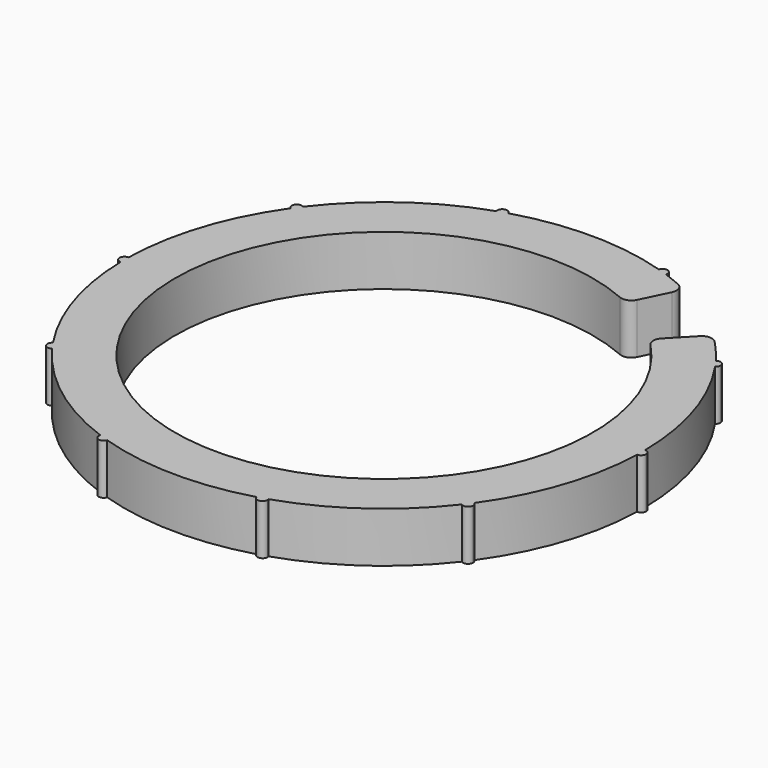
from build123d import *

# Parameters (mm, degrees)
F1_DEPTH = 5
F2_R     = 1


with BuildPart() as f1:
    # F0 (on Top) → F1 (new body)
    with BuildSketch(Plane.XY):
        with BuildLine():
            Line((9.0738694714, 18.6608518781), (11.2603440428, 23.1574426921))
            ThreePointArc((11.2603440428, 23.1574426921), (9.9323752456, 23.7573235441), (8.5725995071, 24.2811251323))
            ThreePointArc((8.5725995071, 24.2811251323), (7.9422550928, 23.9683767502), (7.6234016022, 24.5956550637))
            ThreePointArc((7.6234016022, 24.5956550637), (0.1248390338, 25.749697381), (-7.3845607731, 24.6684162886))
            ThreePointArc((-7.3845607731, 24.6684162886), (-7.3677802865, 24.5952434717), (-7.3621444406, 24.5203830475))
            ThreePointArc((-7.3621444406, 24.5203830475), (-7.7824878927, 24.0267689934), (-8.3367637781, 24.3631046812))
            ThreePointArc((-8.3367637781, 24.3631046812), (-15.0748079196, 20.8761267046), (-20.5042125636, 15.5768985086))
            ThreePointArc((-20.5042125636, 15.5768985086), (-20.3559791837, 15.4002374508), (-20.3027969195, 15.1758406794))
            ThreePointArc((-20.3027969195, 15.1758406794), (-20.5740726878, 14.731222612), (-21.0935378229, 14.769060976))
            ThreePointArc((-21.0935378229, 14.769060976), (-24.4819782767, 7.9809297492), (-25.7451456311, 0.4999764345))
            ThreePointArc((-25.7451456311, 0.4999764345), (-25.3947344764, 0.3518329259), (-25.25, 0))
            ThreePointArc((-25.25, 0), (-25.3947344764, -0.3518329259), (-25.7451456311, -0.4999764345))
            ThreePointArc((-25.7451456311, -0.4999764345), (-24.5582114818, -7.7431743372), (-21.3759633758, -14.357252166))
            ThreePointArc((-21.3759633758, -14.357252166), (-20.8601405899, -14.3272138075), (-20.5931651404, -14.769593236))
            ThreePointArc((-20.5931651404, -14.769593236), (-20.6485441873, -14.998311858), (-20.8024139726, -15.1763656029))
            ThreePointArc((-20.8024139726, -15.1763656029), (-15.4767893092, -20.5798807741), (-8.807629266, -24.1968627452))
            ThreePointArc((-8.807629266, -24.1968627452), (-8.2517100627, -23.8704965491), (-7.836149008, -24.3633150396))
            ThreePointArc((-7.836149008, -24.3633150396), (-7.842533949, -24.4429653597), (-7.861525702, -24.5205814294))
            ThreePointArc((-7.861525702, -24.5205814294), (-0.3745053645, -25.7472764721), (7.1450256699, -24.7388582634))
            ThreePointArc((7.1450256699, -24.7388582634), (7.4759829686, -24.1178808906), (8.1001442518, -24.4427936844))
            ThreePointArc((8.1001442518, -24.4427936844), (14.8716818107, -21.0213125214), (20.352213188, -15.7749776022))
            ThreePointArc((20.352213188, -15.7749776022), (20.2536106171, -15.0782544405), (20.9493436351, -14.9728922143))
            ThreePointArc((20.9493436351, -14.9728922143), (24.4034433497, -8.2179348182), (25.7390875582, -0.7495809963))
            ThreePointArc((25.7390875582, -0.7495809963), (25.2488130356, -0.2448270726), (25.7487832229, 0.2503248665))
            ThreePointArc((25.7487832229, 0.2503248665), (24.5582114818, 7.7431743372), (21.2357488599, 14.5638411952))
            ThreePointArc((21.2357488599, 14.5638411952), (20.5421897741, 14.6826748), (20.6542841949, 15.377354922))
            ThreePointArc((20.6542841949, 15.377354922), (19.3058923652, 17.0395134902), (17.8241209929, 18.5839503559))
            Line((17.8241209929, 18.5839503559), (14.3631266254, 14.9754163062))
            ThreePointArc((14.3631266254, 14.9754163062), (-11.8624957471, -17.0247964643), (9.0738694714, 18.6608518781))
        make_face()
        with BuildLine():
            ThreePointArc((7.6234016022, 24.5956550637), (7.9422550928, 23.9683767502), (8.5725995071, 24.2811251323))
            ThreePointArc((8.5725995071, 24.2811251323), (8.0995274709, 24.442998072), (7.6234016022, 24.5956550637))
        make_face()
        with BuildLine():
            ThreePointArc((7.6234016022, 24.5956550637), (8.0995274709, 24.442998072), (8.5725995071, 24.2811251323))
            ThreePointArc((8.5725995071, 24.2811251323), (8.5927495396, 24.3609493611), (8.5995274709, 24.442998072))
            ThreePointArc((8.5995274709, 24.442998072), (8.176783751, 24.9369934841), (7.6234016022, 24.5956550637))
        make_face()
        with BuildLine():
            ThreePointArc((-7.3621444406, 24.5203830475), (-7.3677802865, 24.5952434717), (-7.3845607731, 24.6684162886))
            ThreePointArc((-7.3845607731, 24.6684162886), (-7.8621444406, 24.5203830475), (-8.3367637781, 24.3631046812))
            ThreePointArc((-8.3367637781, 24.3631046812), (-7.7824878927, 24.0267689934), (-7.3621444406, 24.5203830475))
        make_face()
        with BuildLine():
            ThreePointArc((-8.3367637781, 24.3631046812), (-7.8621444406, 24.5203830475), (-7.3845607731, 24.6684162886))
            ThreePointArc((-7.3845607731, 24.6684162886), (-8.0148074395, 24.9965069901), (-8.3367637781, 24.3631046812))
        make_face()
        with BuildLine():
            ThreePointArc((21.4489658093, 14.9734208357), (21.1755261685, 15.4191454183), (20.6542841949, 15.377354922))
            ThreePointArc((20.6542841949, 15.377354922), (20.9489658093, 14.9734208357), (21.2357488599, 14.5638411952))
            ThreePointArc((21.2357488599, 14.5638411952), (21.3924697694, 14.7425437313), (21.4489658093, 14.9734208357))
        make_face()
        with BuildLine():
            ThreePointArc((21.2357488599, 14.5638411952), (20.9489658093, 14.9734208357), (20.6542841949, 15.377354922))
            ThreePointArc((20.6542841949, 15.377354922), (20.5421897741, 14.6826748), (21.2357488599, 14.5638411952))
        make_face()
        with BuildLine():
            ThreePointArc((-20.3027969195, 15.1758406794), (-20.3559791837, 15.4002374508), (-20.5042125636, 15.5768985086))
            ThreePointArc((-20.5042125636, 15.5768985086), (-20.8027969195, 15.1758406794), (-21.0935378229, 14.769060976))
            ThreePointArc((-21.0935378229, 14.769060976), (-20.5740726878, 14.731222612), (-20.3027969195, 15.1758406794))
        make_face()
        with BuildLine():
            ThreePointArc((-21.0935378229, 14.769060976), (-20.8027969195, 15.1758406794), (-20.5042125636, 15.5768985086))
            ThreePointArc((-20.5042125636, 15.5768985086), (-21.2067347237, 15.4705171975), (-21.0935378229, 14.769060976))
        make_face()
        with BuildLine():
            ThreePointArc((26.2487895313, -0.2496751334), (26.1023406915, 0.1038804875), (25.7487832229, 0.2503248665))
            ThreePointArc((25.7487832229, 0.2503248665), (25.7487895313, -0.2496751334), (25.7390875582, -0.7495809963))
            ThreePointArc((25.7390875582, -0.7495809963), (26.0988959533, -0.6066422093), (26.2487895313, -0.2496751334))
        make_face()
        with BuildLine():
            ThreePointArc((25.7390875582, -0.7495809963), (25.7487895313, -0.2496751334), (25.7487832229, 0.2503248665))
            ThreePointArc((25.7487832229, 0.2503248665), (25.2488130356, -0.2448270726), (25.7390875582, -0.7495809963))
        make_face()
        with BuildLine():
            ThreePointArc((-25.25, 0), (-25.3947344764, 0.3518329259), (-25.7451456311, 0.4999764345))
            ThreePointArc((-25.7451456311, 0.4999764345), (-25.75, 0), (-25.7451456311, -0.4999764345))
            ThreePointArc((-25.7451456311, -0.4999764345), (-25.3947344764, -0.3518329259), (-25.25, 0))
        make_face()
        with BuildLine():
            ThreePointArc((-25.7451456311, -0.4999764345), (-25.75, 0), (-25.7451456311, 0.4999764345))
            ThreePointArc((-25.7451456311, 0.4999764345), (-26.25, 0), (-25.7451456311, -0.4999764345))
        make_face()
        with BuildLine():
            ThreePointArc((21.1546722134, -15.3768337363), (21.1003939376, -15.1502677535), (20.9493436351, -14.9728922143))
            ThreePointArc((20.9493436351, -14.9728922143), (20.6546722134, -15.3768337363), (20.352213188, -15.7749776022))
            ThreePointArc((20.352213188, -15.7749776022), (20.8769001227, -15.824734123), (21.1546722134, -15.3768337363))
        make_face()
        with BuildLine():
            ThreePointArc((20.352213188, -15.7749776022), (20.6546722134, -15.3768337363), (20.9493436351, -14.9728922143))
            ThreePointArc((20.9493436351, -14.9728922143), (20.2536106171, -15.0782544405), (20.352213188, -15.7749776022))
        make_face()
        with BuildLine():
            ThreePointArc((-20.5931651404, -14.769593236), (-20.8601405899, -14.3272138075), (-21.3759633758, -14.357252166))
            ThreePointArc((-21.3759633758, -14.357252166), (-21.0931651404, -14.769593236), (-20.8024139726, -15.1763656029))
            ThreePointArc((-20.8024139726, -15.1763656029), (-20.6485441873, -14.998311858), (-20.5931651404, -14.769593236))
        make_face()
        with BuildLine():
            ThreePointArc((-20.8024139726, -15.1763656029), (-21.0931651404, -14.769593236), (-21.3759633758, -14.357252166))
            ThreePointArc((-21.3759633758, -14.357252166), (-21.5027411626, -15.0563814542), (-20.8024139726, -15.1763656029))
        make_face()
        with BuildLine():
            ThreePointArc((8.1240222353, -24.5954626904), (8.1180166726, -24.5182001777), (8.1001442518, -24.4427936844))
            ThreePointArc((8.1001442518, -24.4427936844), (7.6240222353, -24.5954626904), (7.1450256699, -24.7388582634))
            ThreePointArc((7.1450256699, -24.7388582634), (7.696485044, -25.0901839668), (8.1240222353, -24.5954626904))
        make_face()
        with BuildLine():
            ThreePointArc((7.1450256699, -24.7388582634), (7.6240222353, -24.5954626904), (8.1001442518, -24.4427936844))
            ThreePointArc((8.1001442518, -24.4427936844), (7.4759829686, -24.1178808906), (7.1450256699, -24.7388582634))
        make_face()
        with BuildLine():
            ThreePointArc((-7.836149008, -24.3633150396), (-8.2517100627, -23.8704965491), (-8.807629266, -24.1968627452))
            ThreePointArc((-8.807629266, -24.1968627452), (-8.336149008, -24.3633150396), (-7.861525702, -24.5205814294))
            ThreePointArc((-7.861525702, -24.5205814294), (-7.842533949, -24.4429653597), (-7.836149008, -24.3633150396))
        make_face()
        with BuildLine():
            ThreePointArc((-7.861525702, -24.5205814294), (-8.336149008, -24.3633150396), (-8.807629266, -24.1968627452))
            ThreePointArc((-8.807629266, -24.1968627452), (-8.498015979, -24.836389118), (-7.861525702, -24.5205814294))
        make_face()
    extrude(amount=F1_DEPTH)

    # F2
    f2_edges = [f1.edges().sort_by_distance(p)[0] for p in [
        (9.073869, 18.660852, 2.5),
        (11.260344, 23.157443, 2.5),
        (17.824121, 18.58395, 2.5),
        (14.363127, 14.975416, 2.5),
    ]]
    fillet(f2_edges, radius=F2_R)


solid = f1.part
